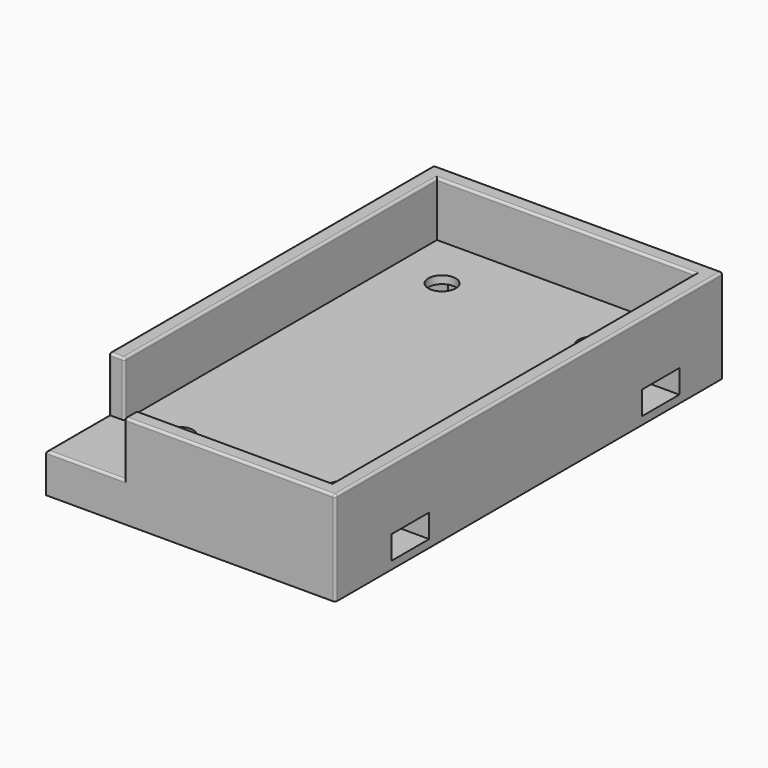
from build123d import *

# Parameters (mm, degrees)
PRISM003_DEPTH            = 3
CYLINDER005_R             = 1.75
CYLINDER005_DEPTH         = 20
BOX004_W                  = 6
BOX004_H                  = 20
BOX004_DEPTH              = 3
FUSION001_PLACEMENT_ANGLE = 90
PRISM004_DEPTH            = 3
CYLINDER006_R             = 1.75
CYLINDER006_DEPTH         = 20
BOX005_W                  = 6
BOX005_H                  = 20
BOX005_DEPTH              = 3
FUSION002_PLACEMENT_ANGLE = 270
PRISM005_DEPTH            = 3
CYLINDER007_R             = 1.75
CYLINDER007_DEPTH         = 20
BOX006_W                  = 6
BOX006_H                  = 20
BOX006_DEPTH              = 3
FUSION003_PLACEMENT_ANGLE = 90
PRISM002_DEPTH            = 3
CYLINDER004_R             = 1.75
CYLINDER004_DEPTH         = 20
BOX003_W                  = 6
BOX003_H                  = 20
BOX003_DEPTH              = 3
FUSION_PLACEMENT_ANGLE    = 90
BOX002_W                  = 10
BOX002_H                  = 10
BOX002_DEPTH              = 10
BOX_W                     = 33
BOX_H                     = 58
BOX_DEPTH                 = 10
BOX001_W                  = 37
BOX001_H                  = 62
BOX001_DEPTH              = 12
FILLET_R                  = 0.3
FILLET001_R               = 0.3


with BuildPart() as prisma003:
    # Prism003 → Prism003 (new body)
    with BuildSketch(Plane(origin=(34, 7.5, 3), x_dir=(0, 1, 0), z_dir=(0, 0, 1))):
        Polygon((3.25, 0), (1.625, 2.814583), (-1.625, 2.814583), (-3.25, 0), (-1.625, -2.814583), (1.625, -2.814583), align=None)
    extrude(amount=PRISM003_DEPTH)


with BuildPart() as cilindro005:
    # Cylinder005 → Cylinder005 (new body)
    with BuildSketch(Plane(origin=(34, 7.5, -1), x_dir=(1, 0, 0), z_dir=(0, 0, 1))):
        Circle(CYLINDER005_R)
    extrude(amount=CYLINDER005_DEPTH)


with BuildPart() as fusion001:
    # Box004 → Box004 (new body)
    with BuildSketch(Plane(origin=(31, 9, 3), x_dir=(1, 0, 0), z_dir=(0, 0, 1))):
        with Locations((3, 10)):
            Rectangle(BOX004_W, BOX004_H)
    extrude(amount=BOX004_DEPTH)

    # Fusion001: union Prisma003, Cilindro005
    add(prisma003.part)
    add(cilindro005.part)


with BuildPart() as fusion001_1:
    # Fusion001 placement: moved
    add(fusion001.part.moved(Location((13.75, -25, -2))).rotate(Axis((13.75, -25, -2), (0, 0, 1)), FUSION001_PLACEMENT_ANGLE))


with BuildPart() as prisma004:
    # Prism004 → Prism004 (new body)
    with BuildSketch(Plane(origin=(34, 7.5, 3), x_dir=(0, 1, 0), z_dir=(0, 0, 1))):
        Polygon((3.25, 0), (1.625, 2.814583), (-1.625, 2.814583), (-3.25, 0), (-1.625, -2.814583), (1.625, -2.814583), align=None)
    extrude(amount=PRISM004_DEPTH)


with BuildPart() as cilindro006:
    # Cylinder006 → Cylinder006 (new body)
    with BuildSketch(Plane(origin=(34, 7.5, -1), x_dir=(1, 0, 0), z_dir=(0, 0, 1))):
        Circle(CYLINDER006_R)
    extrude(amount=CYLINDER006_DEPTH)


with BuildPart() as fusion002:
    # Box005 → Box005 (new body)
    with BuildSketch(Plane(origin=(31, 9, 3), x_dir=(1, 0, 0), z_dir=(0, 0, 1))):
        with Locations((3, 10)):
            Rectangle(BOX005_W, BOX005_H)
    extrude(amount=BOX005_DEPTH)

    # Fusion002: union Prisma004, Cilindro006
    add(prisma004.part)
    add(cilindro006.part)


with BuildPart() as fusion002_1:
    # Fusion002 placement: moved
    add(fusion002.part.moved(Location((18.75, 44, -2))).rotate(Axis((18.75, 44, -2), (0, 0, 1)), FUSION002_PLACEMENT_ANGLE))


with BuildPart() as prisma005:
    # Prism005 → Prism005 (new body)
    with BuildSketch(Plane(origin=(34, 7.5, 3), x_dir=(0, 1, 0), z_dir=(0, 0, 1))):
        Polygon((3.25, 0), (1.625, 2.814583), (-1.625, 2.814583), (-3.25, 0), (-1.625, -2.814583), (1.625, -2.814583), align=None)
    extrude(amount=PRISM005_DEPTH)


with BuildPart() as cilindro007:
    # Cylinder007 → Cylinder007 (new body)
    with BuildSketch(Plane(origin=(34, 7.5, -1), x_dir=(1, 0, 0), z_dir=(0, 0, 1))):
        Circle(CYLINDER007_R)
    extrude(amount=CYLINDER007_DEPTH)


with BuildPart() as fusion003:
    # Box006 → Box006 (new body)
    with BuildSketch(Plane(origin=(31, 9, 3), x_dir=(1, 0, 0), z_dir=(0, 0, 1))):
        with Locations((3, 10)):
            Rectangle(BOX006_W, BOX006_H)
    extrude(amount=BOX006_DEPTH)

    # Fusion003: union Prisma005, Cilindro007
    add(prisma005.part)
    add(cilindro007.part)


with BuildPart() as fusion003_1:
    # Fusion003 placement: moved
    add(fusion003.part.moved(Location((18.75, 84, -2))).rotate(Axis((18.75, 84, -2), (0, 0, -1)), FUSION003_PLACEMENT_ANGLE))


with BuildPart() as prisma002:
    # Prism002 → Prism002 (new body)
    with BuildSketch(Plane(origin=(34, 7.5, 3), x_dir=(0, 1, 0), z_dir=(0, 0, 1))):
        Polygon((3.25, 0), (1.625, 2.814583), (-1.625, 2.814583), (-3.25, 0), (-1.625, -2.814583), (1.625, -2.814583), align=None)
    extrude(amount=PRISM002_DEPTH)


with BuildPart() as cilindro004:
    # Cylinder004 → Cylinder004 (new body)
    with BuildSketch(Plane(origin=(34, 7.5, -1), x_dir=(1, 0, 0), z_dir=(0, 0, 1))):
        Circle(CYLINDER004_R)
    extrude(amount=CYLINDER004_DEPTH)


with BuildPart() as fusion004:
    # Box003 → Box003 (new body)
    with BuildSketch(Plane(origin=(31, 9, 3), x_dir=(1, 0, 0), z_dir=(0, 0, 1))):
        with Locations((3, 10)):
            Rectangle(BOX003_W, BOX003_H)
    extrude(amount=BOX003_DEPTH)

    # Fusion: union Prisma002, Cilindro004
    add(prisma002.part)
    add(cilindro004.part)


with BuildPart() as fusion004_1:
    # Fusion placement: moved
    add(fusion004.part.moved(Location((13.75, 17, -2))).rotate(Axis((13.75, 17, -2), (0, 0, 1)), FUSION_PLACEMENT_ANGLE))

    # Fusion004: union Fusion001, Fusion002, Fusion003
    add(fusion001_1.part)
    add(fusion002_1.part)
    add(fusion003_1.part)


with BuildPart() as cubo002:
    # Box002 → Box002 (new body)
    with BuildSketch(Plane(origin=(-2, -2, 5), x_dir=(1, 0, 0), z_dir=(0, 0, 1))):
        with Locations((5, 5)):
            Rectangle(BOX002_W, BOX002_H)
    extrude(amount=BOX002_DEPTH)


with BuildPart() as cubo:
    # Box → Box (new body)
    with BuildSketch(Plane.XY.offset(5)):
        with Locations((16.5, 29)):
            Rectangle(BOX_W, BOX_H)
    extrude(amount=BOX_DEPTH)


with BuildPart() as fillet001:
    # Box001 → Box001 (new body)
    with BuildSketch(Plane(origin=(-2, -2, 0), x_dir=(1, 0, 0), z_dir=(0, 0, 1))):
        with Locations((18.5, 31)):
            Rectangle(BOX001_W, BOX001_H)
    extrude(amount=BOX001_DEPTH)

    # Cut: cut Cubo
    add(cubo.part, mode=Mode.SUBTRACT)

    # Cut001: cut Cubo002
    add(cubo002.part, mode=Mode.SUBTRACT)

    # Cut002: cut Fusion004
    add(fusion004_1.part, mode=Mode.SUBTRACT)

    # Fillet
    fillet_edges = [fillet001.edges().sort_by_distance(p)[0] for p in [
        (-2, 60, 6),
        (-2, 34, 12),
        (35, -2, 6),
        (21.5, -2, 12),
        (35, 60, 6),
        (16.5, 60, 12),
        (35, 29, 12),
        (20.5, 0, 12),
        (33, 29, 12),
        (16.5, 58, 12),
        (0, 33, 12),
    ]]
    fillet(fillet_edges, radius=FILLET_R)

    # Fillet001
    fillet001_edges = [fillet001.edges().sort_by_distance(p)[0] for p in [
        (-2, 3, 5),
        (-2, 8, 8.35),
        (8, -2, 8.35),
        (3, -2, 5),
        (0, 8, 8.35),
        (-1, 8, 12),
        (8, 0, 8.35),
        (8, -1, 12),
    ]]
    fillet(fillet001_edges, radius=FILLET001_R)


solid = fillet001.part
